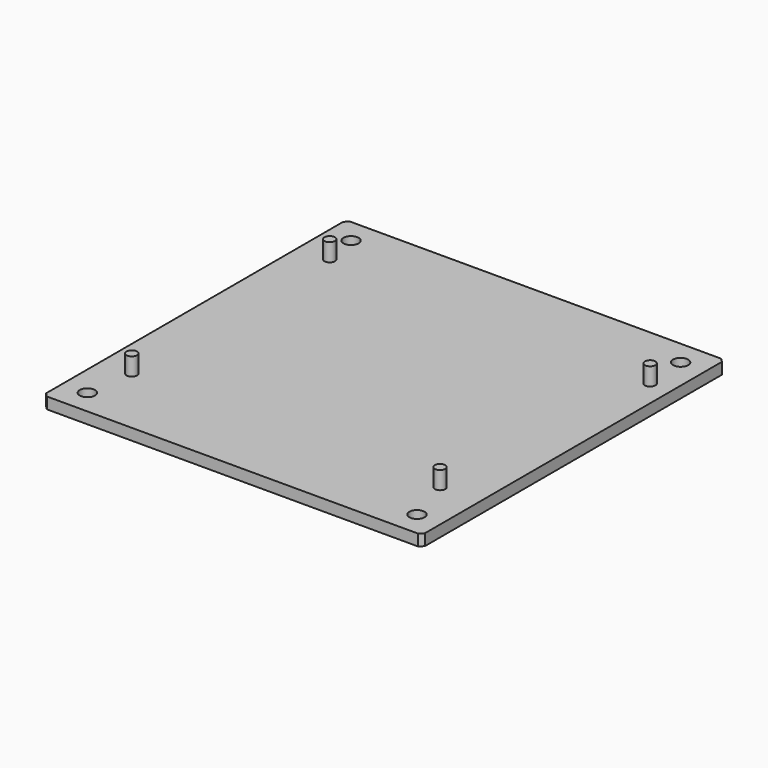
from build123d import *

# Parameters (mm, degrees)
CYLINDER004_R     = 1.375
CYLINDER004_DEPTH = 4.7
CYLINDER005_R     = 1.375
CYLINDER005_DEPTH = 4.7
CYLINDER006_R     = 1.375
CYLINDER006_DEPTH = 4.7
CYLINDER007_R     = 1.375
CYLINDER007_DEPTH = 4.7
CYLINDER_R        = 2
CYLINDER_DEPTH    = 3
CYLINDER001_R     = 2
CYLINDER001_DEPTH = 3
CYLINDER002_R     = 2
CYLINDER002_DEPTH = 3
CYLINDER003_R     = 2
CYLINDER003_DEPTH = 3
BOX_W             = 100
BOX_H             = 100
BOX_DEPTH         = 3
CHAMFER_SIZE      = 1


with BuildPart() as main_ata_board_mounting_screws:
    # Cylinder004 → Cylinder004 (new body)
    with BuildSketch(Plane(origin=(8.3, 18.9, 3), x_dir=(1, 0, 0), z_dir=(0, 0, 1))):
        Circle(CYLINDER004_R)
    extrude(amount=CYLINDER004_DEPTH)


with BuildPart() as main_ata_board_mounting_screws001:
    # Cylinder005 → Cylinder005 (new body)
    with BuildSketch(Plane(origin=(8.3, 84.2, 3), x_dir=(1, 0, 0), z_dir=(0, 0, 1))):
        Circle(CYLINDER005_R)
    extrude(amount=CYLINDER005_DEPTH)


with BuildPart() as main_ata_board_mounting_screws002:
    # Cylinder006 → Cylinder006 (new body)
    with BuildSketch(Plane(origin=(89.6, 19, 3), x_dir=(1, 0, 0), z_dir=(0, 0, 1))):
        Circle(CYLINDER006_R)
    extrude(amount=CYLINDER006_DEPTH)


with BuildPart() as ata_board_mounting_screw_stubs:
    # Cylinder007 → Cylinder007 (new body)
    with BuildSketch(Plane(origin=(94.5, 82.2, 3), x_dir=(1, 0, 0), z_dir=(0, 0, 1))):
        Circle(CYLINDER007_R)
    extrude(amount=CYLINDER007_DEPTH)

    # Fusion001: union Main ATA Board Mounting Screws, Main ATA Board Mounting Screws001, Main ATA Board Mounting Screws002
    add(main_ata_board_mounting_screws.part)
    add(main_ata_board_mounting_screws001.part)
    add(main_ata_board_mounting_screws002.part)


with BuildPart() as f_1u_post_holes:
    # Cylinder → Cylinder (new body)
    with BuildSketch(Plane(origin=(6.5, 6.5, 0), x_dir=(1, 0, 0), z_dir=(0, 0, 1))):
        Circle(CYLINDER_R)
    extrude(amount=CYLINDER_DEPTH)


with BuildPart() as f_1u_post_holes001:
    # Cylinder001 → Cylinder001 (new body)
    with BuildSketch(Plane(origin=(93.5, 6.5, 0), x_dir=(1, 0, 0), z_dir=(0, 0, 1))):
        Circle(CYLINDER001_R)
    extrude(amount=CYLINDER001_DEPTH)


with BuildPart() as f_1u_post_holes002:
    # Cylinder002 → Cylinder002 (new body)
    with BuildSketch(Plane(origin=(93.5, 93.5, 0), x_dir=(1, 0, 0), z_dir=(0, 0, 1))):
        Circle(CYLINDER002_R)
    extrude(amount=CYLINDER002_DEPTH)


with BuildPart() as f_1u_post_holes_assembly:
    # Cylinder003 → Cylinder003 (new body)
    with BuildSketch(Plane(origin=(6.5, 93.5, 0), x_dir=(1, 0, 0), z_dir=(0, 0, 1))):
        Circle(CYLINDER003_R)
    extrude(amount=CYLINDER003_DEPTH)

    # Fusion: union 1U Post Holes, 1U Post Holes001, 1U Post Holes002
    add(f_1u_post_holes.part)
    add(f_1u_post_holes001.part)
    add(f_1u_post_holes002.part)


with BuildPart() as mounting_ata_aluminium:
    # Box → Box (new body)
    with BuildSketch(Plane.XY):
        with Locations((50, 50)):
            Rectangle(BOX_W, BOX_H)
    extrude(amount=BOX_DEPTH)

    # Cut: cut 1U post holes assembly
    add(f_1u_post_holes_assembly.part, mode=Mode.SUBTRACT)

    # Chamfer
    chamfer_edges = [mounting_ata_aluminium.edges().sort_by_distance(p)[0] for p in [
        (0, 0, 1.5),
        (0, 100, 1.5),
        (100, 0, 1.5),
        (100, 100, 1.5),
    ]]
    chamfer(chamfer_edges, length=CHAMFER_SIZE)

    # Fusion002: union ATA Board mounting screw stubs
    add(ata_board_mounting_screw_stubs.part)


with BuildPart() as mounting_ata_aluminium_1:
    # Fusion002 placement: moved
    add(mounting_ata_aluminium.part.moved(Location((0, 0, -3))))


solid = mounting_ata_aluminium_1.part
